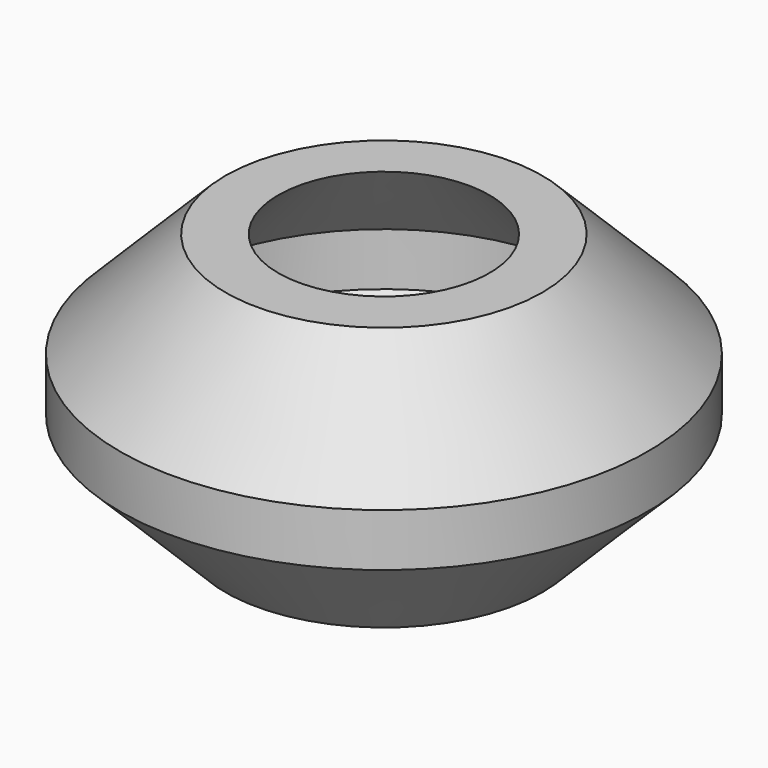
from build123d import *


with BuildPart() as f1:
    # F0 (on Front) → F1 (revolve)
    with BuildSketch(Plane.XZ):
        Polygon((5, 12.5), (0, 7.5), (2.5, 7.5), (7.5, 12.5), align=None)
        Polygon((0, 7.5), (0, 5), (2.5, 5), (2.5, 6.25), (2.5, 7.5), align=None)
        Polygon((2.5, 5), (0, 5), (5, 0), (7.5, 0), align=None)
    revolve(axis=Axis((12.5, 0, 9.325136), (0, 0, 1)))


solid = f1.part
